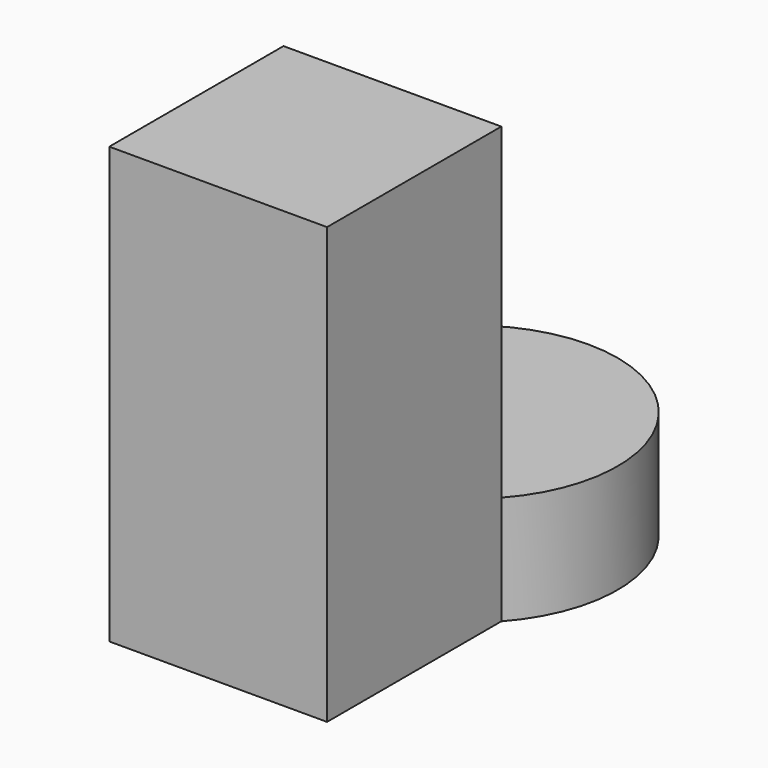
from build123d import *

# Parameters (mm, degrees)
F0_W     = 12.7
F0_H     = 12.7
F1_DEPTH = 25.4
F2_DEPTH = 6.35


with BuildPart() as f1:
    # F0 (on Top) → F1 (new body)
    with BuildSketch(Plane.XY):
        with Locations((-15.829317, 17.811939)):
            Rectangle(F0_W, F0_H)
    extrude(amount=F1_DEPTH)

    # F0 (on Top) → F2 (join)
    with BuildSketch(Plane.XY):
        with Locations((-15.829317, 17.811939)):
            Rectangle(F0_W, F0_H)
        with BuildLine():
            ThreePointArc((-9.479317, 24.161939), (-15.829317, 38.441623), (-22.179317, 24.161939))
            Line((-22.179317, 24.161939), (-9.479317, 24.161939))
        make_face()
    extrude(amount=F2_DEPTH)


solid = f1.part
